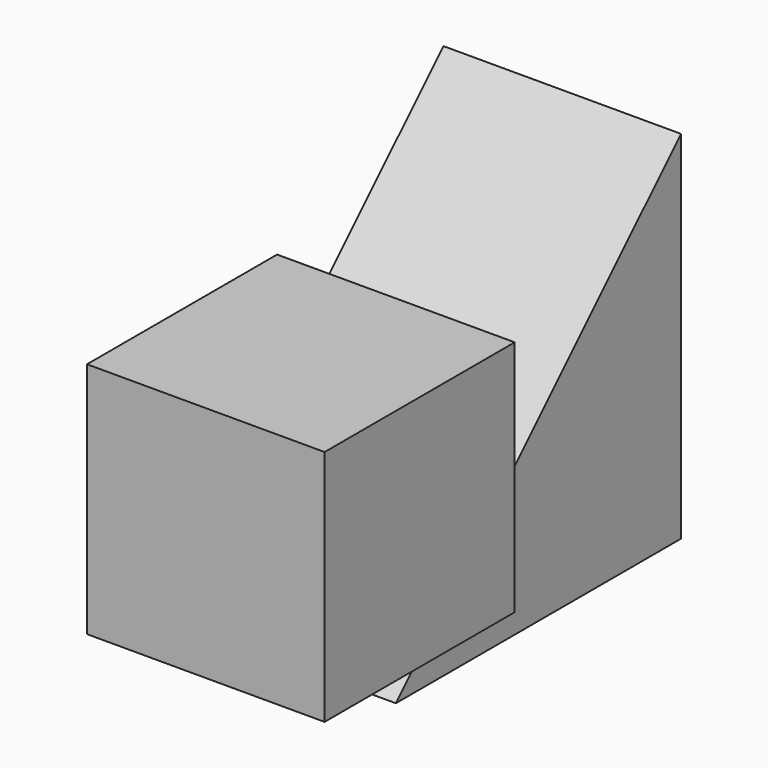
from build123d import *

# Parameters (mm, degrees)
F2_DEPTH = 25.4
F0_W     = 25.4
F0_H     = 25.4
F3_DEPTH = 25.4


with BuildPart() as f2:
    # F1 (on Right) → F2 (new body)
    with BuildSketch(Plane.YZ):
        Polygon((38.1, 38.1), (0, 0), (38.1, 0), align=None)
    extrude(amount=F2_DEPTH)


with BuildPart() as f3:
    # F0 (on Front) → F3 (new body)
    with BuildSketch(Plane.XZ):
        with Locations((25.4, 25.4)):
            Rectangle(F0_W, F0_H)
    extrude(amount=F3_DEPTH)


solid = Compound([f2.part, f3.part])
